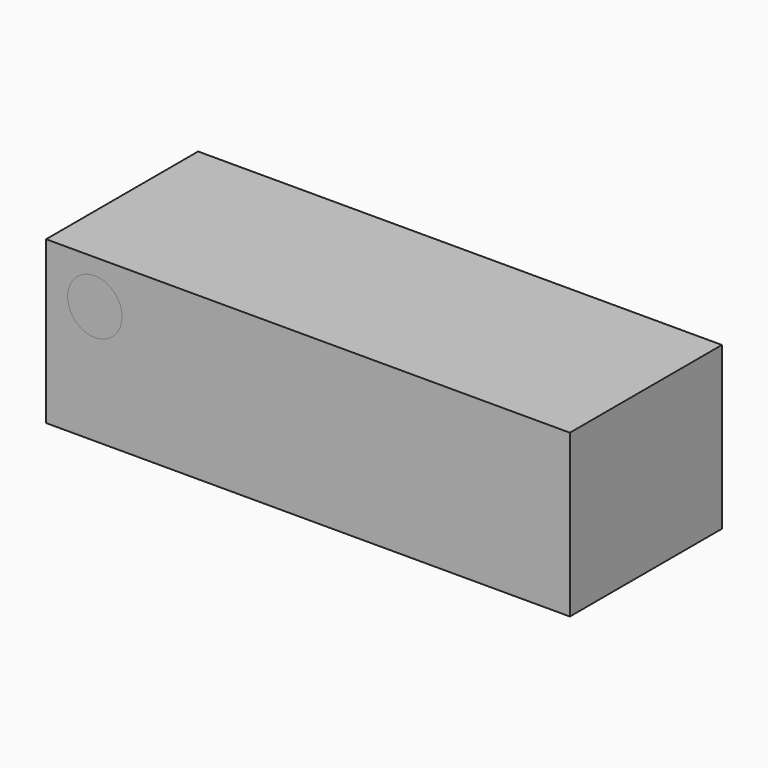
from build123d import *

# Parameters (mm, degrees)
F0_W     = 70.008748
F0_H     = 21.630612
F1_DEPTH = 25.4
F2_R     = 3.633127
F3_DEPTH = 25.4


with BuildPart() as f1:
    # F0 (on Front) → F1 (new body)
    with BuildSketch(Plane.XZ):
        Rectangle(F0_W, F0_H)
    extrude(amount=F1_DEPTH)


with BuildPart() as f3:
    # F2 (on Front) → F3 (new body)
    with BuildSketch(Plane.XZ):
        with Locations((-28.491933, 5.000625)):
            Circle(F2_R)
    extrude(amount=F3_DEPTH)


solid = Compound([f1.part, f3.part])
